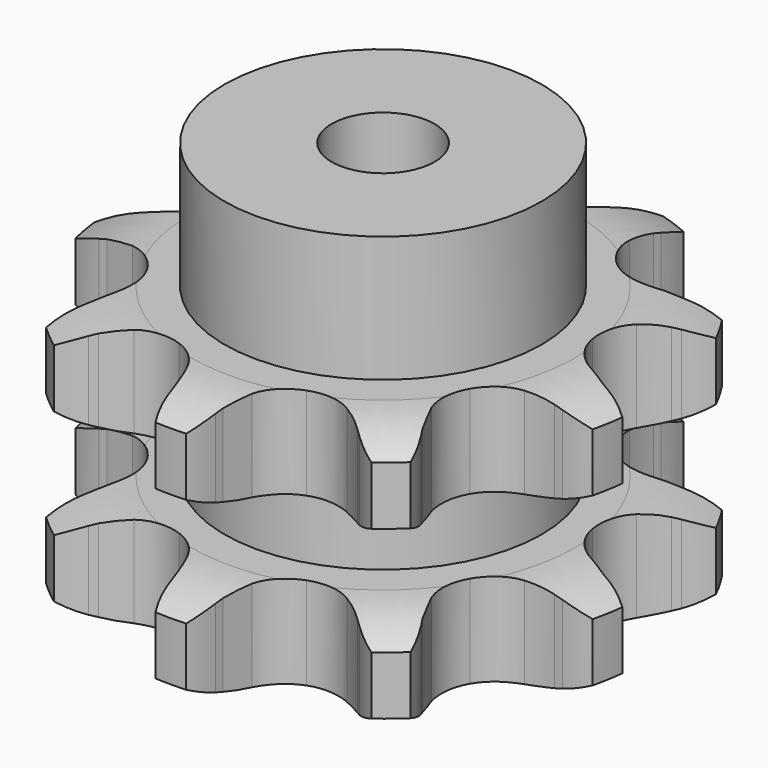
from build123d import *

# Parameters (mm, degrees)
PAD_DEPTH         = 30.3
SKETCH001_R       = 18.5
PAD001_DEPTH      = 45
SKETCH002_R       = 6
POCKET_DEPTH      = 0.001
POCKET_DEPTH_BACK = -45.001


with BuildPart() as part:
    # Sprocket → Pad (new body)
    with BuildSketch(Plane.XY):
        with BuildLine():
            ThreePointArc((-11.430211, 31.404248), (-8.853704, 29.657244), (-6.91389, 27.222592))
            Line((-6.91389, 27.222592), (-6.449913, 26.41535))
            ThreePointArc((-6.449913, 26.41535), (-5.572078, 25.054955), (-4.559299, 23.791805))
            ThreePointArc((-4.559299, 23.791805), (-2.498634, 22.280862), (0, 21.745962))
            ThreePointArc((0, 21.745962), (2.498634, 22.280862), (4.559299, 23.791805))
            ThreePointArc((4.559299, 23.791805), (5.572078, 25.054955), (6.449913, 26.41535))
            Line((6.449913, 26.41535), (6.91389, 27.222592))
            ThreePointArc((6.91389, 27.222592), (8.853704, 29.657244), (11.430211, 31.404248))
            ThreePointArc((11.430211, 31.404248), (12.280978, 28.409818), (12.201998, 25.297878))
            Line((12.201998, 25.297878), (12.038539, 24.381256))
            ThreePointArc((12.038539, 24.381256), (11.836555, 22.774872), (11.800451, 21.156241))
            ThreePointArc((11.800451, 21.156241), (12.407798, 18.674222), (13.978035, 16.658373))
            ThreePointArc((13.978035, 16.658373), (16.235927, 15.46204), (18.785703, 15.294919))
            Line((18.785703, 15.294919), (21.92038, 16.089408))
            ThreePointArc((21.92038, 16.089408), (22.355171, 16.255938), (22.794692, 16.409553))
            ThreePointArc((22.794692, 16.409553), (25.84564, 17.027715), (28.942311, 16.709851))
            ThreePointArc((28.942311, 16.709851), (27.669254, 13.869123), (25.608435, 11.536006))
            Line((25.608435, 11.536006), (24.894026, 10.938902))
            ThreePointArc((24.894026, 10.938902), (23.706733, 9.838173), (22.63864, 8.621437))
            ThreePointArc((22.63864, 8.621437), (21.508483, 6.329705), (21.415592, 3.776147))
            ThreePointArc((21.415592, 3.776147), (22.376249, 1.408357), (24.222068, -0.35863))
            Line((24.222068, -0.35863), (27.134057, -1.764947))
            ThreePointArc((27.134057, -1.764947), (27.57417, -1.916856), (28.009604, -2.081699))
            ThreePointArc((28.009604, -2.081699), (30.744113, -3.56927), (32.911982, -5.80327))
            ThreePointArc((32.911982, -5.80327), (30.110779, -7.161089), (27.032401, -7.623692))
            Line((27.032401, -7.623692), (26.101321, -7.621886))
            ThreePointArc((26.101321, -7.621886), (24.484267, -7.701916), (22.883957, -7.947433))
            ThreePointArc((22.883957, -7.947433), (20.54511, -8.976551), (18.832555, -10.872981))
            ThreePointArc((18.832555, -10.872981), (18.046476, -13.304312), (18.324658, -15.844372))
            Line((18.324658, -15.844372), (19.651407, -18.793464))
            ThreePointArc((19.651407, -18.793464), (19.890909, -19.192732), (20.118511, -19.5989))
            ThreePointArc((20.118511, -19.5989), (21.257074, -22.496155), (21.481771, -25.600977))
            ThreePointArc((21.481771, -25.600977), (18.463135, -24.840548), (15.807606, -23.216179))
            Line((15.807606, -23.216179), (15.095518, -22.616309))
            ThreePointArc((15.095518, -22.616309), (13.80534, -21.638193), (12.421617, -20.797611))
            ThreePointArc((12.421617, -20.797611), (9.968452, -20.082579), (7.437557, -20.43452))
            ThreePointArc((7.437557, -20.43452), (5.272556, -21.791745), (3.852936, -23.916356))
            Line((3.852936, -23.916356), (2.973646, -27.02831))
            ThreePointArc((2.973646, -27.02831), (2.90047, -27.488115), (2.813744, -27.945558))
            ThreePointArc((2.813744, -27.945558), (1.823614, -30.896838), (0, -33.419702))
            ThreePointArc((0, -33.419702), (-1.823614, -30.896838), (-2.813744, -27.945558))
            Line((-2.813744, -27.945558), (-2.973646, -27.02831))
            ThreePointArc((-2.973646, -27.02831), (-3.333259, -25.449719), (-3.852936, -23.916356))
            ThreePointArc((-3.852936, -23.916356), (-5.272556, -21.791745), (-7.437557, -20.43452))
            ThreePointArc((-7.437557, -20.43452), (-9.968452, -20.082579), (-12.421617, -20.797611))
            Line((-12.421617, -20.797611), (-15.095518, -22.616309))
            ThreePointArc((-15.095518, -22.616309), (-15.447131, -22.921504), (-15.807606, -23.216179))
            ThreePointArc((-15.807606, -23.216179), (-18.463135, -24.840548), (-21.481771, -25.600977))
            ThreePointArc((-21.481771, -25.600977), (-21.257074, -22.496155), (-20.118511, -19.5989))
            Line((-20.118511, -19.5989), (-19.651407, -18.793464))
            ThreePointArc((-19.651407, -18.793464), (-18.912188, -17.353039), (-18.324658, -15.844372))
            ThreePointArc((-18.324658, -15.844372), (-18.046476, -13.304312), (-18.832555, -10.872981))
            ThreePointArc((-18.832555, -10.872981), (-20.54511, -8.976551), (-22.883957, -7.947433))
            Line((-22.883957, -7.947433), (-26.101321, -7.621886))
            ThreePointArc((-26.101321, -7.621886), (-26.566848, -7.629667), (-27.032401, -7.623692))
            ThreePointArc((-27.032401, -7.623692), (-30.110779, -7.161089), (-32.911982, -5.80327))
            ThreePointArc((-32.911982, -5.80327), (-30.744113, -3.56927), (-28.009604, -2.081699))
            Line((-28.009604, -2.081699), (-27.134057, -1.764947))
            ThreePointArc((-27.134057, -1.764947), (-25.641895, -1.136678), (-24.222068, -0.35863))
            ThreePointArc((-24.222068, -0.35863), (-22.376249, 1.408357), (-21.415592, 3.776147))
            ThreePointArc((-21.415592, 3.776147), (-21.508483, 6.329705), (-22.63864, 8.621437))
            Line((-22.63864, 8.621437), (-24.894026, 10.938902))
            ThreePointArc((-24.894026, 10.938902), (-25.255641, 11.232177), (-25.608435, 11.536006))
            ThreePointArc((-25.608435, 11.536006), (-27.669254, 13.869123), (-28.942311, 16.709851))
            ThreePointArc((-28.942311, 16.709851), (-25.84564, 17.027715), (-22.794692, 16.409553))
            Line((-22.794692, 16.409553), (-21.92038, 16.089408))
            ThreePointArc((-21.92038, 16.089408), (-20.373474, 15.611546), (-18.785703, 15.294919))
            ThreePointArc((-18.785703, 15.294919), (-16.235927, 15.46204), (-13.978035, 16.658373))
            ThreePointArc((-13.978035, 16.658373), (-12.407798, 18.674222), (-11.800451, 21.156241))
            Line((-11.800451, 21.156241), (-12.038539, 24.381256))
            ThreePointArc((-12.038539, 24.381256), (-12.12704, 24.83836), (-12.201998, 25.297878))
            ThreePointArc((-12.201998, 25.297878), (-12.280978, 28.409818), (-11.430211, 31.404248))
        make_face()
    extrude(amount=PAD_DEPTH)

    # Sketch → Groove (revolve, cut)
    with BuildSketch(Plane.XZ):
        with BuildLine():
            ThreePointArc((22.514719, 0), (26.873618, 0.506758), (31, 2))
            Line((31, 2), (31, 8.8))
            ThreePointArc((31, 8.8), (26.873618, 10.293242), (22.514719, 10.8))
            Line((18.5, 10.8), (22.514719, 10.8))
            Line((18.5, 19.5), (18.5, 10.8))
            Line((22.514719, 19.5), (18.5, 19.5))
            ThreePointArc((22.514719, 19.5), (26.873618, 20.006758), (31, 21.5))
            Line((31, 21.5), (31, 28.3))
            ThreePointArc((31, 28.3), (26.873618, 29.793242), (22.514719, 30.3))
            Line((22.514719, 30.3), (41, 30.3))
            Line((41, 30.3), (41, 0))
            Line((22.514719, 0), (41, 0))
        make_face()
    revolve(axis=Axis((0, 0, 0), (0, 0, 1)), mode=Mode.SUBTRACT)

    # Sketch001 → Pad001 (join)
    with BuildSketch(Plane.XY):
        Circle(SKETCH001_R)
    extrude(amount=PAD001_DEPTH)

    # Sketch002 → Pocket (cut, two sides)
    with BuildSketch(Plane.XY) as pocket_sk:
        Circle(SKETCH002_R)
    extrude(amount=-POCKET_DEPTH, mode=Mode.SUBTRACT)
    extrude(pocket_sk.sketch, amount=-POCKET_DEPTH_BACK, mode=Mode.SUBTRACT)


solid = part.part
